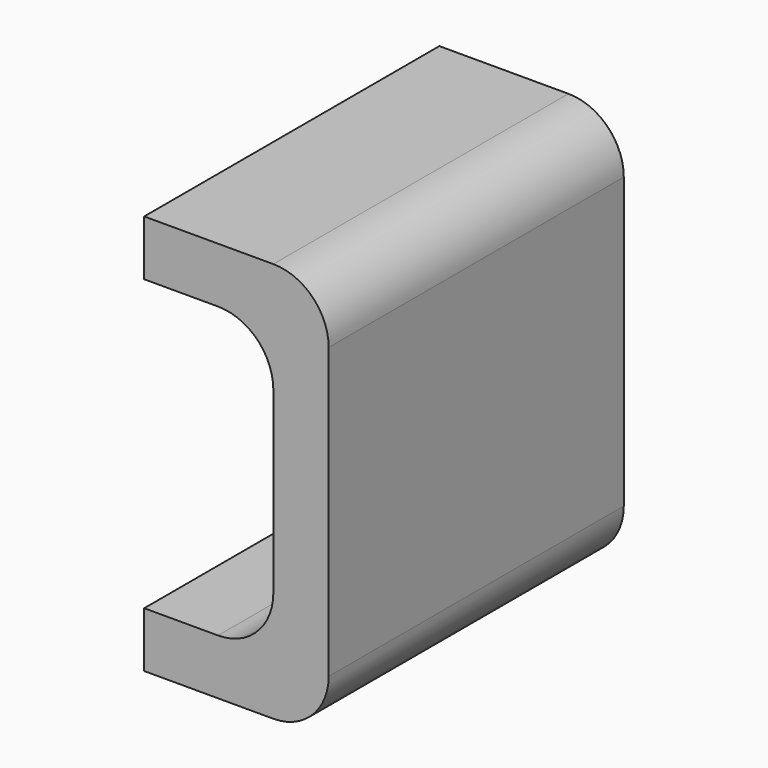
from build123d import *

# Parameters (mm, degrees)
FILLET004_R = 3
FILLET005_R = 3
FILLET006_R = 3
FILLET007_R = 3


with BuildPart() as part:
    # Sweep001: sweep along a path in Sketch008
    with BuildLine(Plane.XY) as sweep001_path:
        Line((-30, 10), (-30, -10))
    # Sketch007 → Sweep001 (sweep)
    with BuildSketch(Plane(origin=(0, 0, 0), x_dir=(-1, 0, 0), z_dir=(0, 1, 0))):
        Polygon((-10, 25.7), (-20, 25.7), (-20, 4), (-10, 4), (-10, 7), (-17, 7), (-17, 22.7), (-10, 22.7), align=None)
    sweep(path=sweep001_path.line)

    # Fillet004
    fillet004_edges = [part.edges().sort_by_distance(p)[0] for p in [
        (20, 0, 25.7),
    ]]
    fillet(fillet004_edges, radius=FILLET004_R)

    # Fillet005
    fillet005_edges = [part.edges().sort_by_distance(p)[0] for p in [
        (20, 0, 4),
    ]]
    fillet(fillet005_edges, radius=FILLET005_R)

    # Fillet006
    fillet006_edges = [part.edges().sort_by_distance(p)[0] for p in [
        (17, 0, 7),
    ]]
    fillet(fillet006_edges, radius=FILLET006_R)

    # Fillet007
    fillet007_edges = [part.edges().sort_by_distance(p)[0] for p in [
        (17, 0, 22.7),
    ]]
    fillet(fillet007_edges, radius=FILLET007_R)


solid = part.part
